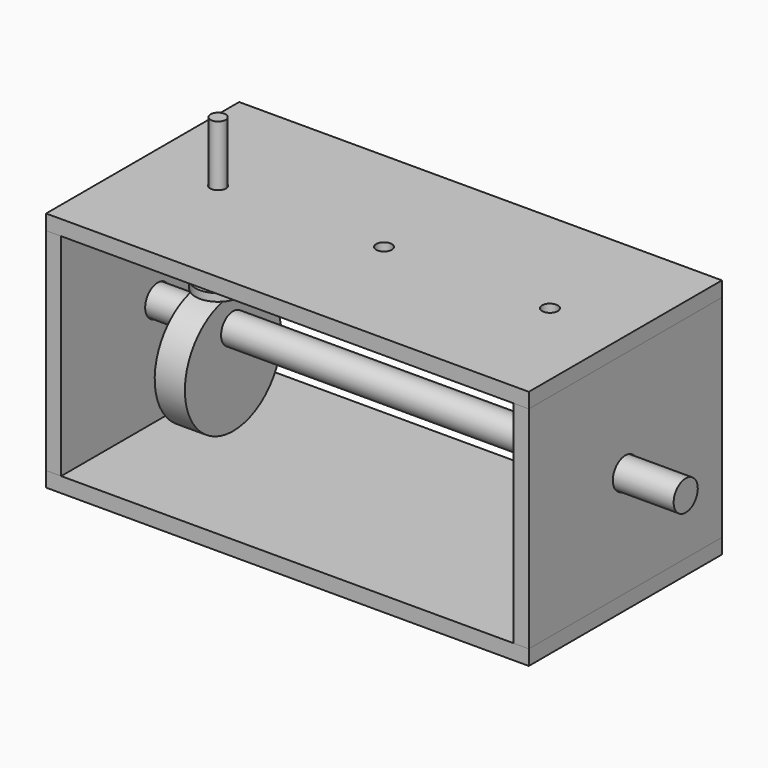
from build123d import *

# Parameters (mm, degrees)
F1_DEPTH      = 50.8
F2_DEPTH      = 50.8
F2_DEPTH_BACK = 50.8
F3_R          = 6.604
F3_R_2        = 6.35
F4_DEPTH      = 203.201
F5_DEPTH      = 25.4
F5_DEPTH_BACK = 203.2
F0_W          = 12.7
F0_H          = 25.4
F9_D          = 6.604
F11_R         = 3.175
F12_DEPTH     = 63.5
F11_R_2       = 9.525
F13_DEPTH     = 3.175


with BuildPart() as f1:
    # F0 (on Front) → F1 (new body, symmetric)
    with BuildSketch(Plane.XZ):
        Polygon((-95.25, 6.35), (-101.6, 6.35), (-101.6, 0), (101.6, 0), (101.6, 6.35), (95.25, 6.35), align=None)
    extrude(amount=F1_DEPTH, both=True)


with BuildPart() as f1b:
    # F0 (on Front) → F1, piece 2 (new body, symmetric)
    with BuildSketch(Plane.XZ):
        Polygon((-101.6, 101.6), (-101.6, 95.25), (-95.25, 95.25), (95.25, 95.25), (101.6, 95.25), (101.6, 101.6), align=None)
    extrude(amount=F1_DEPTH, both=True)

    # F9 (through all)
    with Locations(Plane.XY.offset(101.6)):
        with Locations((-69.85, 0), (69.85, 0), (0, 0)):
            Hole(F9_D / 2)


with BuildPart() as f2:
    # F0 (on Front) → F2 (new body, two sides)
    with BuildSketch(Plane.XZ) as f2_sk:
        Polygon((-101.6, 95.25), (-101.6, 6.35), (-95.25, 6.35), (-95.25, 50.8), (-95.25, 95.25), align=None)
    extrude(amount=F2_DEPTH)
    extrude(f2_sk.sketch, amount=-F2_DEPTH_BACK)


with BuildPart() as f2b:
    # F0 (on Front) → F2, piece 2 (new body, two sides)
    with BuildSketch(Plane.XZ) as f2_2_sk:
        Polygon((95.25, 50.8), (95.25, 6.35), (101.6, 6.35), (101.6, 95.25), (95.25, 95.25), align=None)
    extrude(amount=F2_DEPTH)
    extrude(f2_2_sk.sketch, amount=-F2_DEPTH_BACK)


with BuildPart() as f4_tool:
    # F3 (on face) → F4 (new body, through all)
    with BuildSketch(Plane.YZ.offset(101.6)):
        with Locations((0, 50.8)):
            Circle(F3_R)
        with Locations((0, 50.8)):
            Circle(F3_R_2, mode=Mode.SUBTRACT)
        with Locations((0, 50.8)):
            Circle(F3_R_2)
    extrude(amount=-F4_DEPTH)


with BuildPart() as f2_1:
    add(f2.part)

    # F4: cut by f4_tool
    add(f4_tool.part, mode=Mode.SUBTRACT)


with BuildPart() as f2b_1:
    add(f2b.part)

    # F4: cut by f4_tool
    add(f4_tool.part, mode=Mode.SUBTRACT)


with BuildPart() as f5:
    # F3 (on face) → F5 (new body, two sides)
    with BuildSketch(Plane.YZ.offset(101.6)) as f5_sk:
        with Locations((0, 50.8)):
            Circle(F3_R_2)
    extrude(amount=F5_DEPTH)
    extrude(f5_sk.sketch, amount=-F5_DEPTH_BACK)


with BuildPart() as f6:
    # F0 (on Front) → F6 (revolve)
    with BuildSketch(Plane.XZ):
        with Locations((-69.85, 25.4)):
            Rectangle(F0_W, F0_H)
    revolve(axis=Axis((-69.85, 0, 38.1), (1, 0, 0)))

    # F7: cut F5
    add(f5.part, mode=Mode.SUBTRACT)


with BuildPart() as f12:
    # F11 (on plane+point) → F12 (new body, through all)
    with BuildSketch(Plane.XY.offset(63.5)):
        with Locations((-69.85, 0)):
            Circle(F11_R)
    extrude(amount=F12_DEPTH)


with BuildPart() as f13:
    # F11 (on plane+point) → F13 (new body)
    with BuildSketch(Plane.XY.offset(63.5)):
        with Locations((-69.85, 0)):
            Circle(F11_R_2)
        with Locations((-69.85, 0)):
            Circle(F11_R, mode=Mode.SUBTRACT)
    extrude(amount=F13_DEPTH)


solid = Compound([f1.part, f1b.part, f2_1.part, f2b_1.part, f5.part, f6.part, f12.part, f13.part])
